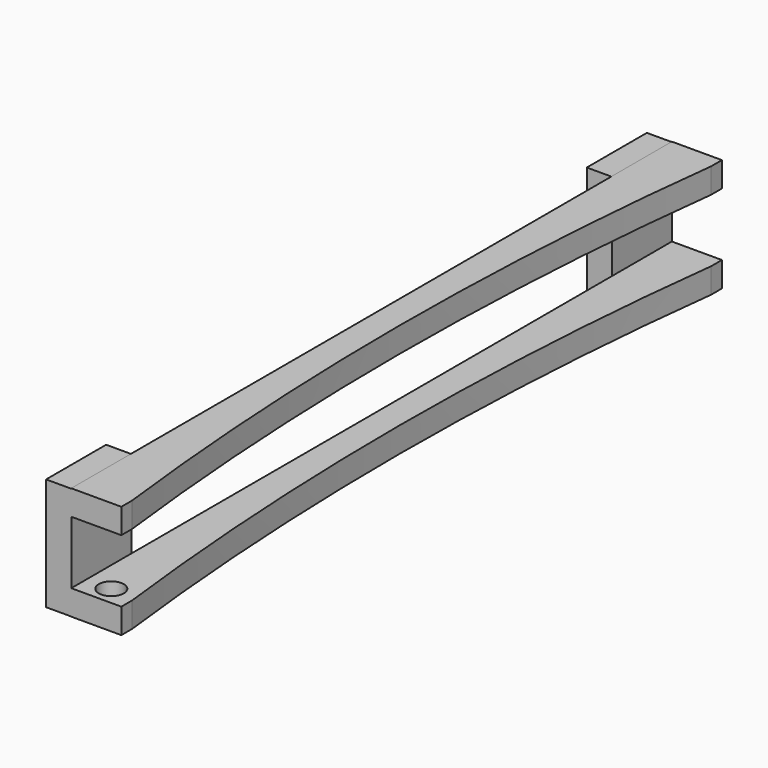
from build123d import *

# Parameters (mm, degrees)
F0_W      = 50.8
F0_H      = 25.4
F1_DEPTH  = 762
F2_W      = 25.5529284477
F2_H      = 114.2060160637
F3_DEPTH  = 76.2
F4_W      = 50.8
F4_H      = 25.4632905126
F5_DEPTH  = 762
F7_DEPTH  = 76.2
F9_DEPTH  = 114.7185005913
F10_R     = 12.7
F11_DEPTH = 25.4632905126


with BuildPart() as f1:
    # F0 (on Front) → F1 (new body)
    with BuildSketch(Plane.XZ):
        with Locations((25.4, 12.7)):
            Rectangle(F0_W, F0_H)
    extrude(amount=-F1_DEPTH)

    # F2 (on Front) → F3 (join)
    with BuildSketch(Plane.XZ):
        with Locations((-12.7764642239, -32.0715308189)):
            Rectangle(F2_W, F2_H)
    extrude(amount=-F3_DEPTH)

    # F4 (on Front) → F5 (join)
    with BuildSketch(Plane.XZ):
        with Locations((25.4, -76.585855335)):
            Rectangle(F4_W, F4_H)
    extrude(amount=-F5_DEPTH)

    # F6 (on face) → F7 (join)
    with BuildSketch(Plane(origin=(0, 762, 0), x_dir=(-1, 0, 0), z_dir=(0, 1, 0))):
        Polygon((0, -63.8542100787), (0, -89.3175005913), (25.4, -89.3175005913), (25.4, 24.9824994087), (0, 24.9824994087), align=None)
    extrude(amount=-F7_DEPTH)

    # F8 (on face) → F9 (cut, through all)
    with BuildSketch(Plane(origin=(0, 0, -89.3175005913), x_dir=(1, 0, 0), z_dir=(0, 0, -1))):
        with BuildLine():
            Line((50.8, -748.409375731), (50.8, -13.590624269))
            ThreePointArc((50.8, -13.590624269), (28.575, -381), (50.8, -748.409375731))
        make_face()
        with BuildLine():
            ThreePointArc((50.8, -748.409375731), (3260.6154846766, -3423.4386764568), (6124.575, -381))
            ThreePointArc((6124.575, -381), (3260.6154846766, 2661.4386764568), (50.8, -13.590624269))
            Line((50.8, -13.590624269), (50.8, -748.409375731))
        make_face()
    extrude(amount=-F9_DEPTH, mode=Mode.SUBTRACT)

    # F10 (on face) → F11 (cut, through all)
    with BuildSketch(Plane(origin=(0, 0, -89.3175005913), x_dir=(1, 0, 0), z_dir=(0, 0, -1))):
        with Locations((25.4, -19.05)):
            Circle(F10_R)
    extrude(amount=-F11_DEPTH, mode=Mode.SUBTRACT)


solid = f1.part
